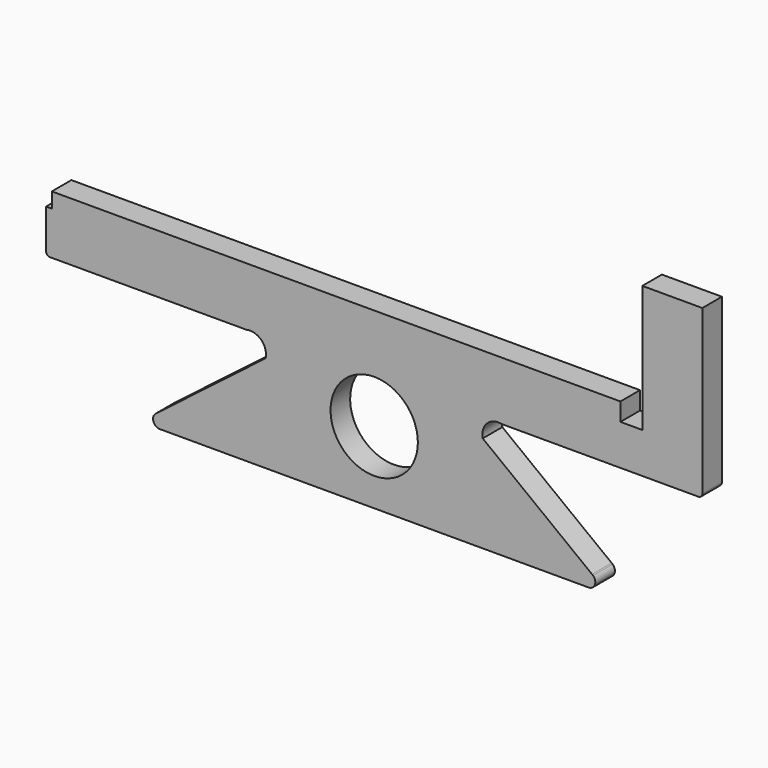
from build123d import *

# Parameters (mm, degrees)
F1_DEPTH = 5


with BuildPart() as f1:
    # F0 (on Front) → F1 (new body)
    with BuildSketch(Plane.XZ):
        with BuildLine():
            Line((50.24597, 11.939397), (0, 11.939397))
            Line((0, 11.939397), (-65.795355, 11.939397))
            Line((-65.795355, 11.939397), (-65.795355, 8.842873))
            Line((-65.795355, 8.842873), (-66.962674, 8.842873))
            Line((-66.962674, 8.842873), (-66.962674, 0.794692))
            ThreePointArc((-66.962674, 0.794692), (-66.759877, 0.265759), (-66.259608, 0))
            Line((-66.259608, 0), (-66.049904, 0))
            Line((-66.049904, 0), (-26.039511, 0))
            ThreePointArc((-26.039511, 0), (-23.043661, -0.854451), (-22.146004, -3.83764))
            Line((-22.146004, -3.83764), (-44.460255, -20.994903))
            Line((-44.460255, -20.994903), (-44.667866, -21.154533))
            ThreePointArc((-44.667866, -21.154533), (-45.063689, -22.603508), (-43.938998, -23.599137))
            Line((-43.938998, -23.599137), (0, -23.599137))
            Line((0, -23.599137), (43.938998, -23.599137))
            ThreePointArc((43.938998, -23.599137), (45.063689, -22.603508), (44.667866, -21.154533))
            Line((44.667866, -21.154533), (44.460255, -20.994903))
            Line((44.460255, -20.994903), (22.146004, -3.83764))
            ThreePointArc((22.146004, -3.83764), (23.043661, -0.854451), (26.039511, 0))
            Line((26.039511, 0), (66.049904, 0))
            Line((66.049904, 0), (66.259608, 0))
            ThreePointArc((66.259608, 0), (66.759877, 0.265759), (66.962674, 0.794692))
            Line((66.962674, 0.794692), (66.962674, 10.803139))
            Line((66.962674, 10.803139), (66.962674, 11.000095))
            Line((66.962674, 11.000095), (66.962674, 34.159385))
            Line((66.962674, 34.159385), (54.718439, 34.159385))
            Line((54.718439, 34.159385), (54.718439, 8.268039))
            Line((54.718439, 8.268039), (50.24597, 8.268039))
            Line((50.24597, 8.268039), (50.24597, 11.939397))
        make_face()
        with BuildLine():
            ThreePointArc((0, 0.032434), (6.299189, -2.576776), (8.908399, -8.875965))
            ThreePointArc((8.908399, -8.875965), (-6.299189, -15.175155), (0, 0.032434))
        make_face(mode=Mode.SUBTRACT)
    extrude(amount=F1_DEPTH)


solid = f1.part
